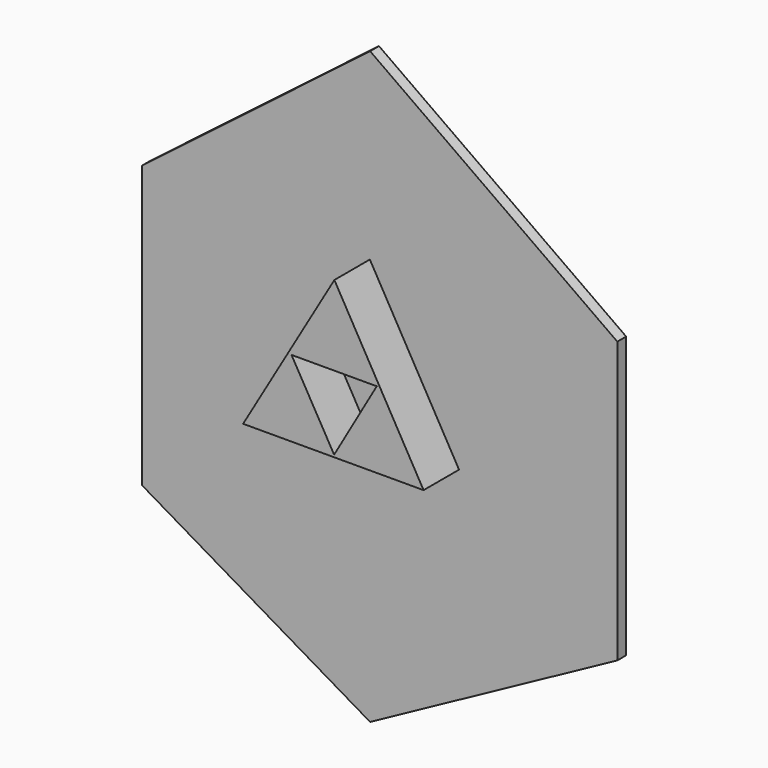
from build123d import *

# Parameters (mm, degrees)
F1_DEPTH  = 12.7
F2_DEPTH  = 2.54
F3_DEPTH  = 7.62
F4_DEPTH  = 2.54
F5_DEPTH  = 2.54
F6_DEPTH  = 2.54
F7_DEPTH  = 2.54
F8_DEPTH  = 2.54
F9_DEPTH  = 2.54
F11_DEPTH = 10.16


with BuildPart() as f1:
    # F0 (on Front) → F1 (new body)
    with BuildSketch(Plane.XZ):
        Polygon((59.2296272516, 26.558874175), (0, 68.5641244054), (-54.7846257687, 26.558874175), (-54.7846257687, -40.5606217682), (0, -72.7868750691), (59.2296272516, -40.5606217682), align=None)
    extrude(amount=F1_DEPTH)

    # F2 (cut): a face of the model
    f2_faces = [f1.faces().sort_by_distance(p)[0] for p in [
        (1.9587071028, -12.7, -4.2659517496),
    ]]
    extrude(f2_faces, amount=-F2_DEPTH, mode=Mode.SUBTRACT)

    # F3 (cut): a face of the model
    f3_faces = [f1.faces().sort_by_distance(p)[0] for p in [
        (1.9587071028, -10.16, -4.2659517496),
    ]]
    extrude(f3_faces, amount=-F3_DEPTH, mode=Mode.SUBTRACT)

    # F4 (cut): a face of the model
    f4_faces = [f1.faces().sort_by_distance(p)[0] for p in [
        (29.6148136258, -1.27, 47.5614992902),
    ]]
    extrude(f4_faces, amount=-F4_DEPTH, mode=Mode.SUBTRACT)

    # F5 (cut): a face of the model
    f5_faces = [f1.faces().sort_by_distance(p)[0] for p in [
        (-27.3923128843, -1.27, 47.5614992902),
    ]]
    extrude(f5_faces, amount=-F5_DEPTH, mode=Mode.SUBTRACT)

    # F6 (cut): a face of the model
    f6_faces = [f1.faces().sort_by_distance(p)[0] for p in [
        (59.2296272516, -1.27, -7.0008737966),
    ]]
    extrude(f6_faces, amount=-F6_DEPTH, mode=Mode.SUBTRACT)

    # F7 (cut): a face of the model
    f7_faces = [f1.faces().sort_by_distance(p)[0] for p in [
        (-54.7846257687, -1.27, -7.0008737966),
    ]]
    extrude(f7_faces, amount=-F7_DEPTH, mode=Mode.SUBTRACT)

    # F8 (cut): a face of the model
    f8_faces = [f1.faces().sort_by_distance(p)[0] for p in [
        (-27.3923128843, -1.27, -56.6737484187),
    ]]
    extrude(f8_faces, amount=-F8_DEPTH, mode=Mode.SUBTRACT)

    # F9 (cut): a face of the model
    f9_faces = [f1.faces().sort_by_distance(p)[0] for p in [
        (29.6148136258, -1.27, -56.6737484187),
    ]]
    extrude(f9_faces, amount=-F9_DEPTH, mode=Mode.SUBTRACT)

    # F10 (on face) → F11 (join)
    with BuildSketch(Plane.XZ.offset(2.54)):
        Polygon((0, 23.3808644116), (-20.9086928517, -12.427886948), (20.4324796796, -12.3670902103), align=None)
        Polygon((-0.0592354809, -11.8803661317), (-9.8176104948, 5.073542241), (9.7081990615, 5.1022570899), align=None, mode=Mode.SUBTRACT)
    extrude(amount=F11_DEPTH)


solid = f1.part
